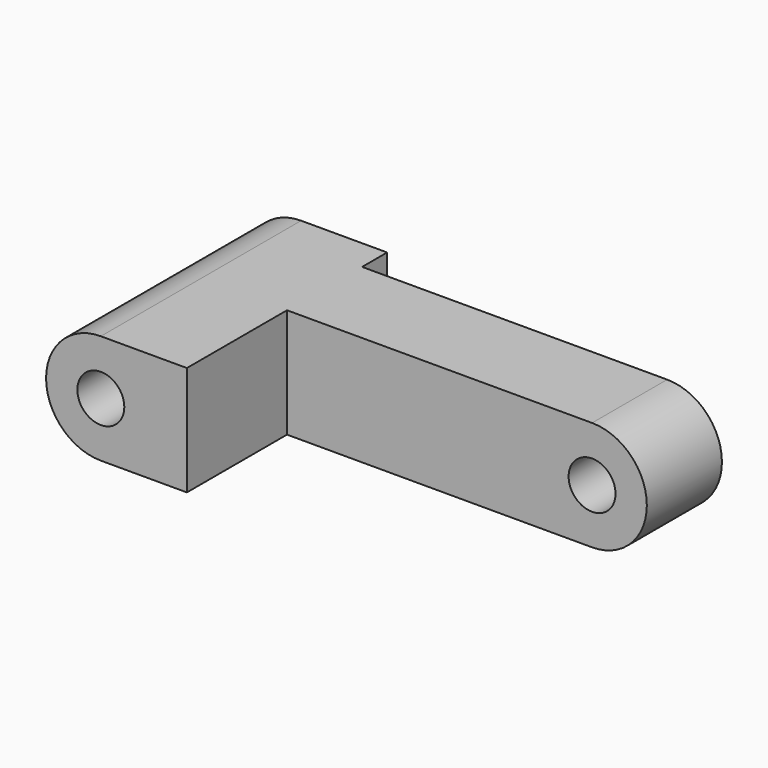
from build123d import *

# Parameters (mm, degrees)
F0_R     = 1.5
F1_DEPTH = 8
F2_W     = 40.742426
F2_H     = 15.659974
F2_W_2   = 45.289567
F2_H_2   = 22.391903
F3_DEPTH = 25.4


with BuildPart() as f1:
    # F0 (on Front) → F1 (new body, symmetric)
    with BuildSketch(Plane.XZ):
        with BuildLine():
            ThreePointArc((14, 0), (12.5, 1.5), (11, 0))
            ThreePointArc((11, 0), (12.5, -1.5), (14, 0))
        make_face()
        with Locations((-12.5, 0)):
            Circle(F0_R)
        with BuildLine():
            Line((12.5, 3.5), (-12.5, 3.5))
            ThreePointArc((-12.5, 3.5), (-16, 0), (-12.5, -3.5))
            Line((-12.5, -3.5), (12.5, -3.5))
            ThreePointArc((12.5, -3.5), (16, 0), (12.5, 3.5))
        make_face()
        with Locations((-12.5, 0)):
            Circle(F0_R, mode=Mode.SUBTRACT)
        with BuildLine():
            ThreePointArc((14, 0), (12.5, -1.5), (11, 0))
            ThreePointArc((11, 0), (12.5, 1.5), (14, 0))
        make_face(mode=Mode.SUBTRACT)
    extrude(amount=F1_DEPTH, both=True)

    # F2 (on face) → F3 (cut)
    with BuildSketch(Plane.XY.offset(3.5)):
        with Locations((13.371213, 13.829987)):
            Rectangle(F2_W, F2_H)
        with Locations((15.644783, -11.195951)):
            Rectangle(F2_W_2, F2_H_2)
    extrude(amount=-F3_DEPTH, mode=Mode.SUBTRACT)


solid = f1.part
